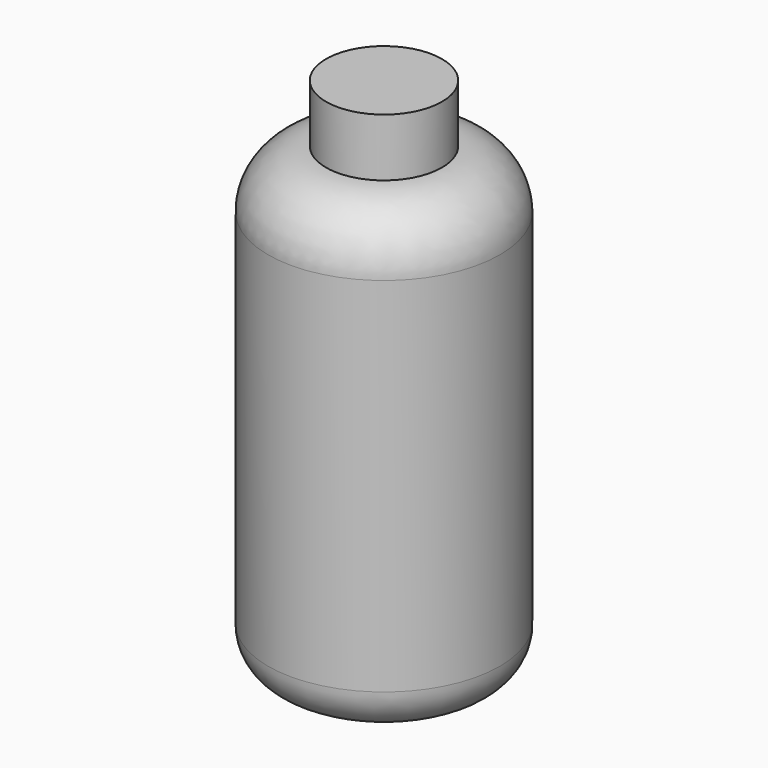
from build123d import *

# Parameters (mm, degrees)
F2_R     = 25.4
F3_DEPTH = 25.4


with BuildPart() as f1:
    # F0 (on Front) → F1 (revolve)
    with BuildSketch(Plane.XZ):
        with BuildLine():
            Line((11.075585, 138.400463), (-14.324415, 138.400463))
            Line((-14.324415, 138.400463), (-14.324415, -64.799537))
            Line((-14.324415, -64.799537), (17.425585, -64.799537))
            ThreePointArc((17.425585, -64.799537), (30.895969, -59.219921), (36.475585, -45.749537))
            Line((36.475585, -45.749537), (36.475585, 113.000463))
            ThreePointArc((36.475585, 113.000463), (29.036097, 130.960975), (11.075585, 138.400463))
        make_face()
    revolve(axis=Axis((-14.324415, 0, 36.800463), (0, 0, -1)))

    # F2 (on face) → F3 (join)
    with BuildSketch(Plane.XY.offset(138.400463)):
        with Locations((-14.324415, 0)):
            Circle(F2_R)
    extrude(amount=F3_DEPTH)


solid = f1.part
